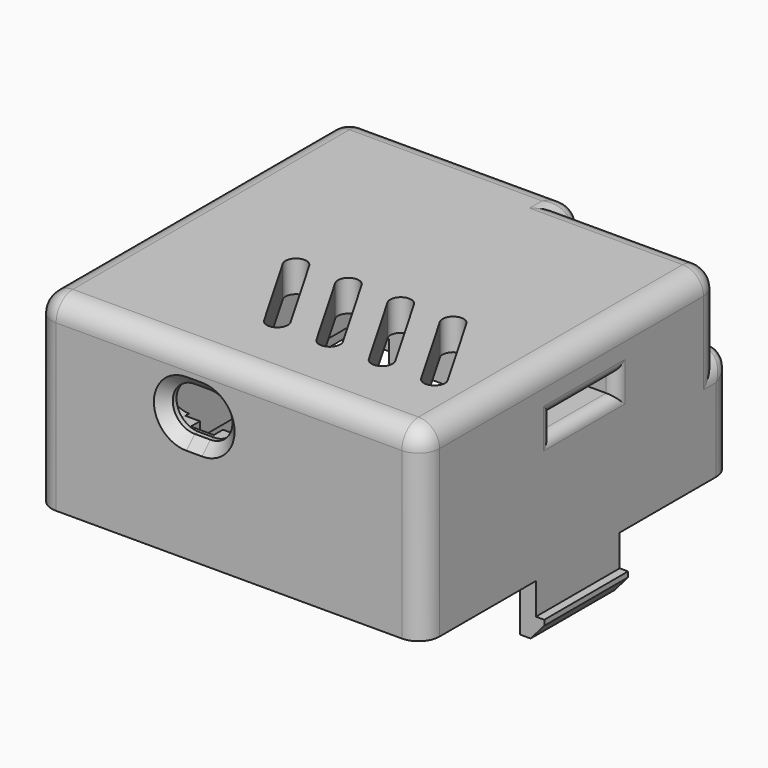
from build123d import *

# Parameters (mm, degrees)
SKETCH_W        = 37
SKETCH_H        = 37
PAD_DEPTH       = 17.8
SKETCH001_W     = 30.1
SKETCH001_H     = 30.1
POCKET_DEPTH    = 14.8
SKETCH002_R     = 1
PAD001_DEPTH    = 3.2
SKETCH003_W     = 31
SKETCH003_H     = 31
POCKET001_DEPTH = 10
SKETCH004_W     = 2.2
SKETCH004_H     = 1.6
POCKET002_DEPTH = 10
POCKET003_DEPTH = 2
POCKET004_DEPTH = 1.5
SKETCH011_W     = 8.94
SKETCH011_H     = 3.16
POCKET007_DEPTH = 3.5
SKETCH012_W     = 14.612
SKETCH012_H     = 7.87
POCKET008_DEPTH = 1.5
SKETCH013_W     = 7.7
SKETCH013_H     = 1.75
POCKET009_DEPTH = 3.5
PAD005_DEPTH    = 5
POCKET014_DEPTH = 2.1
SKETCH021_W     = 2.79
SKETCH021_H     = 4.318
POCKET013_DEPTH = 2.5
POCKET011_DEPTH = 3
POCKET012_DEPTH = 3.5
FILLET006_R     = 2
CHAMFER_SIZE    = 1
FILLET007_R     = 1
FILLET008_R     = 1


with BuildPart() as part:
    # Sketch → Pad (new body)
    with BuildSketch(Plane.XY):
        Rectangle(SKETCH_W, SKETCH_H)
    extrude(amount=PAD_DEPTH)

    # Sketch001 → Pocket (cut)
    with BuildSketch(Plane.XY):
        Rectangle(SKETCH001_W, SKETCH001_H)
    extrude(amount=POCKET_DEPTH, mode=Mode.SUBTRACT)

    # Sketch002 (on Face11 of Pocket) → Pad001 (join)
    with BuildSketch(Plane.XY.offset(14.8)):
        with Locations((1.018, 12.079)):
            Circle(SKETCH002_R)
        with Locations((9.384, -0.351)):
            Circle(SKETCH002_R)
        with Locations((-7.888, -4.939)):
            Circle(SKETCH002_R)
    extrude(amount=-PAD001_DEPTH)

    # Sketch003 → Pocket001 (cut)
    with BuildSketch(Plane.XY):
        Rectangle(SKETCH003_W, SKETCH003_H)
    extrude(amount=POCKET001_DEPTH, mode=Mode.SUBTRACT)

    # Sketch004 → Pocket002 (cut)
    with BuildSketch(Plane.XY):
        with Locations((-4.066, -15.8)):
            Rectangle(SKETCH004_W, SKETCH004_H)
    extrude(amount=POCKET002_DEPTH, mode=Mode.SUBTRACT)

    # Sketch005 (on Face16 of Pocket002) → Pocket003 (cut)
    with BuildSketch(Plane(origin=(0, -15.05, 0), x_dir=(-1, 0, 0), z_dir=(0, 1, 0))):
        with BuildLine():
            ThreePointArc((0.066, 14.4), (-2.134, 12.2), (0.066, 10))
            Line((0.066, 10), (6.566, 10))
            ThreePointArc((6.566, 10), (8.766, 12.2), (6.566, 14.4))
            Line((6.566, 14.4), (0.066, 14.4))
        make_face()
    extrude(amount=-POCKET003_DEPTH, mode=Mode.SUBTRACT)

    # Sketch006 (on Face18 of Pocket003) → Pocket004 (cut)
    with BuildSketch(Plane(origin=(0, -17.05, 0), x_dir=(-1, 0, 0), z_dir=(0, 1, 0))):
        with BuildLine():
            ThreePointArc((2.566, 14.3), (0.466, 12.2), (2.566, 10.1))
            Line((2.566, 10.1), (4.066, 10.1))
            ThreePointArc((4.066, 10.1), (6.166, 12.2), (4.066, 14.3))
            Line((4.066, 14.3), (2.566, 14.3))
        make_face()
    extrude(amount=-POCKET004_DEPTH, mode=Mode.SUBTRACT)

    # Sketch011 (on Face26 of Pocket004) → Pocket007 (cut)
    with BuildSketch(Plane.XZ.offset(-15.05)):
        with Locations((9.638, 13.18)):
            Rectangle(SKETCH011_W, SKETCH011_H)
    extrude(amount=-POCKET007_DEPTH, mode=Mode.SUBTRACT)

    # Sketch012 (on Face1 of Pocket007) → Pocket008 (cut)
    with BuildSketch(Plane(origin=(0, 18.5, 0), x_dir=(-1, 0, 0), z_dir=(0, 1, 0))):
        with Locations((-11.194, 13.865)):
            Rectangle(SKETCH012_W, SKETCH012_H)
    extrude(amount=-POCKET008_DEPTH, mode=Mode.SUBTRACT)

    # Sketch013 (on Face34 of Pocket008) → Pocket009 (cut)
    with BuildSketch(Plane(origin=(15.05, 0, 0), x_dir=(0, -1, 0), z_dir=(-1, 0, 0))):
        with Locations((-0.776, 12.425)):
            Rectangle(SKETCH013_W, SKETCH013_H)
    extrude(amount=-POCKET009_DEPTH, mode=Mode.SUBTRACT)

    # Sketch015 → Pad005 (join, symmetric)
    with BuildSketch(Plane.XZ):
        Polygon((-17, 0), (-18.5, 0), (-18.5, -3), (-19.3, -3), (-19.3, -3.5), (-18, -5), (-17, -5), align=None)
        Polygon((17, 0), (18.5, 0), (18.5, -3), (19.3, -3), (19.3, -3.5), (18, -5), (17, -5), align=None)
    extrude(amount=PAD005_DEPTH, both=True)

    # Sketch022 (on Face2 of Pad005) → Pocket014 (cut)
    with BuildSketch(Plane(origin=(0, 0, 0), x_dir=(1, 0, 0), z_dir=(0, 0, -1))):
        Polygon((-17.1, 17.1), (-11.9, 17.1), (-11.9, 15.5), (-15.5, 15.5), (-15.5, 11.9), (-17.1, 11.9), align=None)
        Polygon((17.1, 17.1), (11.9, 17.1), (11.9, 15.5), (15.5, 15.5), (15.5, 11.9), (17.1, 11.9), align=None)
        Polygon((-17.1, -17.1), (-11.9, -17.1), (-11.9, -15.5), (-15.5, -15.5), (-15.5, -11.9), (-17.1, -11.9), align=None)
        Polygon((17.1, -17.1), (11.9, -17.1), (11.9, -15.5), (15.5, -15.5), (15.5, -11.9), (17.1, -11.9), align=None)
    extrude(amount=-POCKET014_DEPTH, mode=Mode.SUBTRACT)

    # Sketch021 (on Face51 of Pad005) → Pocket013 (cut)
    with BuildSketch(Plane(origin=(0, 0, 14.8), x_dir=(1, 0, 0), z_dir=(0, 0, -1))):
        with Locations((-12.335, 12.686)):
            Rectangle(SKETCH021_W, SKETCH021_H)
    extrude(amount=-POCKET013_DEPTH, mode=Mode.SUBTRACT)

    # Sketch019 (on Face6 of Pocket013) → Pocket011 (cut)
    with BuildSketch(Plane.XY.offset(17.8)):
        with BuildLine():
            ThreePointArc((-5.133975, -2.5), (-6.5, -2.133975), (-6.866025, -3.5))
            Line((-6.866025, -3.5), (-2.247223, -11.5))
            ThreePointArc((-2.247223, -11.5), (-0.881198, -11.866025), (-0.515172, -10.5))
            Line((-0.515172, -10.5), (-5.133975, -2.5))
        make_face()
        with BuildLine():
            ThreePointArc((-0.133975, -2.5), (-1.5, -2.133975), (-1.866025, -3.5))
            Line((-1.866025, -3.5), (2.752777, -11.5))
            ThreePointArc((2.752777, -11.5), (4.118802, -11.866025), (4.484828, -10.5))
            Line((4.484828, -10.5), (-0.133975, -2.5))
        make_face()
        with BuildLine():
            ThreePointArc((4.866025, -2.5), (3.5, -2.133975), (3.133975, -3.5))
            Line((3.133975, -3.5), (7.752777, -11.5))
            ThreePointArc((7.752777, -11.5), (9.118802, -11.866025), (9.484828, -10.5))
            Line((9.484828, -10.5), (4.866025, -2.5))
        make_face()
        with BuildLine():
            ThreePointArc((9.866025, -2.5), (8.5, -2.133975), (8.133975, -3.5))
            Line((8.133975, -3.5), (12.752777, -11.5))
            ThreePointArc((12.752777, -11.5), (14.118802, -11.866025), (14.484828, -10.5))
            Line((14.484828, -10.5), (9.866025, -2.5))
        make_face()
    extrude(amount=-POCKET011_DEPTH, mode=Mode.SUBTRACT)

    # Sketch020 (on Face7 of Pocket011) → Pocket012 (cut)
    with BuildSketch(Plane(origin=(-18.5, 0, 0), x_dir=(0, -1, 0), z_dir=(-1, 0, 0))):
        Polygon((-2.464102, 14.6), (1, 14.6), (-0.732051, 11.6), align=None)
        Polygon((-7.464102, 14.6), (-4, 14.6), (-5.732051, 11.6), align=None)
        Polygon((-12.464102, 14.6), (-9, 14.6), (-10.732051, 11.6), align=None)
    extrude(amount=-POCKET012_DEPTH, mode=Mode.SUBTRACT)

    # Fillet006
    fillet006_edges = [part.edges().sort_by_distance(p)[0] for p in [
        (11.194, 17, 17.8),
        (3.888, 17.75, 17.8),
        (-7.306, 18.5, 17.8),
        (18.5, -0.75, 17.8),
        (18.5, 17, 13.865),
        (18.5, 17.75, 9.93),
        (18.5, 18.5, 4.965),
        (-18.5, 18.5, 8.9),
        (-18.5, 0, 17.8),
        (-18.5, -18.5, 8.9),
        (0, -18.5, 17.8),
        (18.5, -18.5, 8.9),
    ]]
    fillet(fillet006_edges, radius=FILLET006_R)

    # Chamfer
    chamfer_edges = [part.edges().sort_by_distance(p)[0] for p in [
        (-3.316, -18.5, 14.3),
    ]]
    chamfer(chamfer_edges, length=CHAMFER_SIZE)

    # Fillet007
    fillet007_edges = [part.edges().sort_by_distance(p)[0] for p in [
        (10.194, 18.5, 9.93),
        (3.888, 18.5, 12.865),
        (5.168, 17, 13.18),
        (9.638, 17, 11.6),
        (14.108, 17, 13.18),
        (9.638, 17, 14.76),
        (3.180098, 17.792098, 17.326592),
        (18.026592, 17.792098, 9.222098),
    ]]
    fillet(fillet007_edges, radius=FILLET007_R)

    # Fillet008
    fillet008_edges = [part.edges().sort_by_distance(p)[0] for p in [
        (18.5, 0.776, 13.3),
        (18.5, -3.074, 12.425),
        (18.5, 0.776, 11.55),
        (18.5, 4.626, 12.425),
    ]]
    fillet(fillet008_edges, radius=FILLET008_R)


solid = part.part
